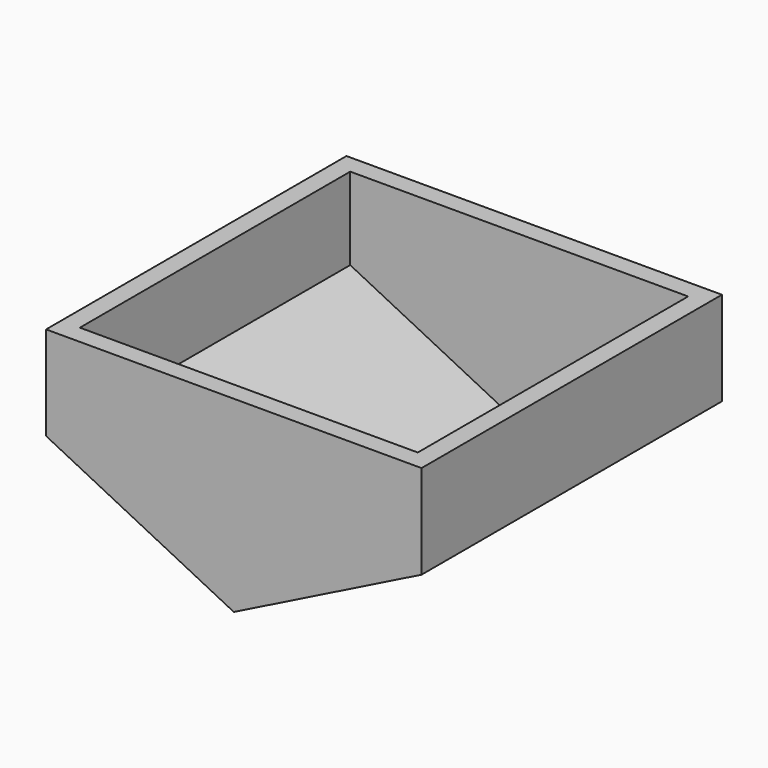
from build123d import *

# Parameters (mm, degrees)
F1_DEPTH = 50.8
F2_T     = -2.54


with BuildPart() as f1:
    # F0 (on Front) → F1 (new body)
    with BuildSketch(Plane.XZ):
        Polygon((-28.8925, 9.17408), (-54.2925, 9.17408), (-54.2925, -3.52592), (-28.8925, -16.22592), align=None)
        Polygon((-3.4925, 9.17408), (-28.8925, 9.17408), (-28.8925, -16.22592), (-3.4925, -3.52592), align=None)
    extrude(amount=F1_DEPTH)

    # F2
    f2_openings = [f1.faces().sort_by_distance(p)[0] for p in [
        (-28.8925, -25.4, 9.17408),
    ]]
    offset(amount=F2_T, openings=f2_openings)


solid = f1.part
